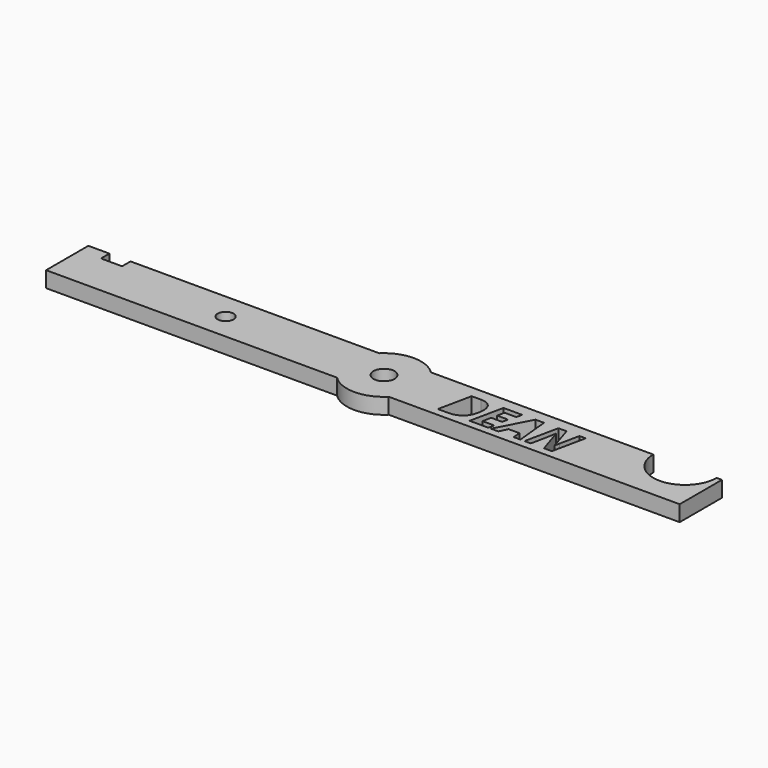
from build123d import *

# Parameters (mm, degrees)
F0_R     = 1.5
F1_DEPTH = 3


with BuildPart() as f1:
    # F0 (on Top) → F1 (new body)
    with BuildSketch(Plane.XY):
        with BuildLine():
            Line((-56, 5), (-60, 5))
            Line((-60, 5), (-60, -5))
            Line((-60, -5), (-4.8989794856, -5))
            ThreePointArc((-4.8989794856, -5), (-6.4534043883, -2.7117470016), (-7, 0))
            ThreePointArc((-7, 0), (-6.4534043883, 2.7117470016), (-4.8989794856, 5))
            Line((-4.8989794856, 5), (-52, 5))
            Line((-52, 5), (-52, 3))
            Line((-52, 3), (-56, 3))
            Line((-56, 3), (-56, 5))
        make_face()
        with Locations((-30, 0)):
            Circle(F0_R, mode=Mode.SUBTRACT)
        with BuildLine():
            ThreePointArc((4.8989794856, 5), (0, 7), (-4.8989794856, 5))
            Line((-4.8989794856, 5), (4.8989794856, 5))
        make_face()
        with BuildLine():
            Line((4.8989794856, -5), (-4.8989794856, -5))
            ThreePointArc((-4.8989794856, -5), (0, -7), (4.8989794856, -5))
        make_face()
        with BuildLine():
            ThreePointArc((-7, 0), (-6.4534043883, -2.7117470016), (-4.8989794856, -5))
            Line((-4.8989794856, -5), (4.8989794856, -5))
            ThreePointArc((4.8989794856, -5), (6.4534043883, -2.7117470016), (7, 0))
            ThreePointArc((7, 0), (6.4534043883, 2.7117470016), (4.8989794856, 5))
            Line((4.8989794856, 5), (-4.8989794856, 5))
            ThreePointArc((-4.8989794856, 5), (-6.4534043883, 2.7117470016), (-7, 0))
        make_face()
        with BuildLine():
            ThreePointArc((2, 0), (0, -2), (-2, 0))
            ThreePointArc((-2, 0), (0, 2), (2, 0))
        make_face(mode=Mode.SUBTRACT)
        with BuildLine():
            ThreePointArc((7, 0), (6.4534043883, -2.7117470016), (4.8989794856, -5))
            Line((4.8989794856, -5), (60, -5))
            Line((60, -5), (60, 5))
            Line((60, 5), (59, 5))
            ThreePointArc((59, 5), (53, -1), (47, 5))
            Line((47, 5), (4.8989794856, 5))
            ThreePointArc((4.8989794856, 5), (6.4534043883, 2.7117470016), (7, 0))
        make_face()
        with BuildLine():
            add(Edge.make_bspline(
                [(17.89625742, 2.1835303769), (18.5359551454, 1.5625860049), (18.5359551454, 0.4040454989)],
                knots=[0, 0, 0, 1, 1, 1], degree=2))
            add(Edge.make_bspline(
                [(18.5359551454, 0.4040454989), (18.5359551454, -0.8114496364), (18.1108791324, -1.7081377619)],
                knots=[0, 0, 0, 1, 1, 1], degree=2))
            add(Edge.make_bspline(
                [(18.1108791324, -1.7081377619), (17.6858031194, -2.6048258874), (16.8807980555, -3.0736597253)],
                knots=[0, 0, 0, 1, 1, 1], degree=2))
            add(Edge.make_bspline(
                [(16.8807980555, -3.0736597253), (16.0757929917, -3.5424935631), (14.9811528013, -3.5424935631)],
                knots=[0, 0, 0, 1, 1, 1], degree=2))
            Line((14.9811528013, -3.5424935631), (13.0238583492, -3.5424935631))
            Line((13.0238583492, -3.5424935631), (14.3643758412, 2.8044747489))
            Line((14.3643758412, 2.8044747489), (16.0841278154, 2.8044747489))
            add(Edge.make_bspline(
                [(16.0841278154, 2.8044747489), (17.2565596945, 2.8044747489), (17.89625742, 2.1835303769)],
                knots=[0, 0, 0, 1, 1, 1], degree=2))
        make_face(mode=Mode.SUBTRACT)
        Polygon((22.821443708, -2.4311837252), (22.5866795048, -3.5424935631), (19.0402119844, -3.5424935631), (20.3807294764, 2.8044747489), (23.932753546, 2.8044747489), (23.6979893427, 1.7014997347), (21.4753696668, 1.7014997347), (21.1836508343, 0.3081950254), (23.2548545448, 0.3081950254), (23.0159229297, -0.7947799888), (20.9461083565, -0.7947799888), (20.5988240321, -2.4311837252), align=None, mode=Mode.SUBTRACT)
        Polygon((27.3875380047, -3.5424935631), (27.2833527074, -2.0311121835), (25.2302077818, -2.0311121835), (24.4842410531, -3.5424935631), (23.0951037556, -3.5424935631), (26.4193093084, 2.8308683575), (28.0390433972, 2.8308683575), (28.6766574167, -3.5424935631), align=None, mode=Mode.SUBTRACT)
        with BuildLine():
            Line((35.9668499537, 2.8044747489), (34.6249433244, -3.5424935631))
            Line((34.6249433244, -3.5424935631), (33.1399555534, -3.5424935631))
            Line((33.1399555534, -3.5424935631), (31.5952348786, 1.2583649368))
            Line((31.5952348786, 1.2583649368), (31.56884127, 1.2583649368))
            Line((31.56884127, 1.2583649368), (31.5507824851, 1.1194512071))
            add(Edge.make_bspline(
                [(31.5507824851, 1.1194512071), (31.4118687554, 0.1817835313), (31.2646202019, -0.5558483737)],
                knots=[0, 0, 0, 1, 1, 1], degree=2))
            Line((31.2646202019, -0.5558483737), (30.6353410061, -3.5424935631))
            Line((30.6353410061, -3.5424935631), (29.4420720676, -3.5424935631))
            Line((29.4420720676, -3.5424935631), (30.7825895596, 2.8044747489))
            Line((30.7825895596, 2.8044747489), (32.3328667836, 2.8044747489))
            Line((32.3328667836, 2.8044747489), (33.8081305935, -1.8713613943))
            Line((33.8081305935, -1.8713613943), (33.8261893783, -1.8713613943))
            add(Edge.make_bspline(
                [(33.8261893783, -1.8713613943), (33.8775874583, -1.5407467175), (33.99496956, -0.928831738)],
                knots=[0, 0, 0, 1, 1, 1], degree=2))
            add(Edge.make_bspline(
                [(33.99496956, -0.928831738), (34.1123516616, -0.3169167585), (34.7763592898, 2.8044747489)],
                knots=[0, 0, 0, 1, 1, 1], degree=2))
            Line((34.7763592898, 2.8044747489), (35.9668499537, 2.8044747489))
        make_face(mode=Mode.SUBTRACT)
    extrude(amount=F1_DEPTH)


solid = f1.part
